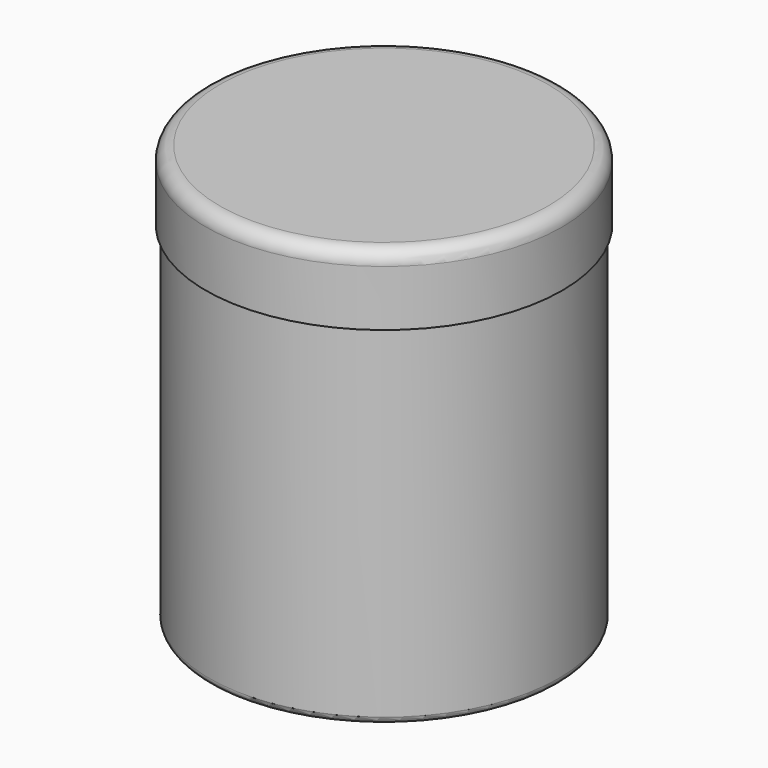
from build123d import *

# Parameters (mm, degrees)
F0_R     = 25
F1_DEPTH = 50
F2_R     = 25.5
F3_DEPTH = 10
F4_R     = 2
F5_R     = 1


with BuildPart() as f1:
    # F0 (on Top) → F1 (new body)
    with BuildSketch(Plane.XY):
        Circle(F0_R)
    extrude(amount=F1_DEPTH)

    # F2 (on face) → F3 (join)
    with BuildSketch(Plane.XY.offset(50)):
        Circle(F2_R)
    extrude(amount=F3_DEPTH)

    # F4
    f4_edges = [f1.edges().sort_by_distance(p)[0] for p in [
        (-25.5, 0, 60),
    ]]
    fillet(f4_edges, radius=F4_R)

    # F5
    f5_edges = [f1.edges().sort_by_distance(p)[0] for p in [
        (-25, 0, 0),
    ]]
    fillet(f5_edges, radius=F5_R)


solid = f1.part
